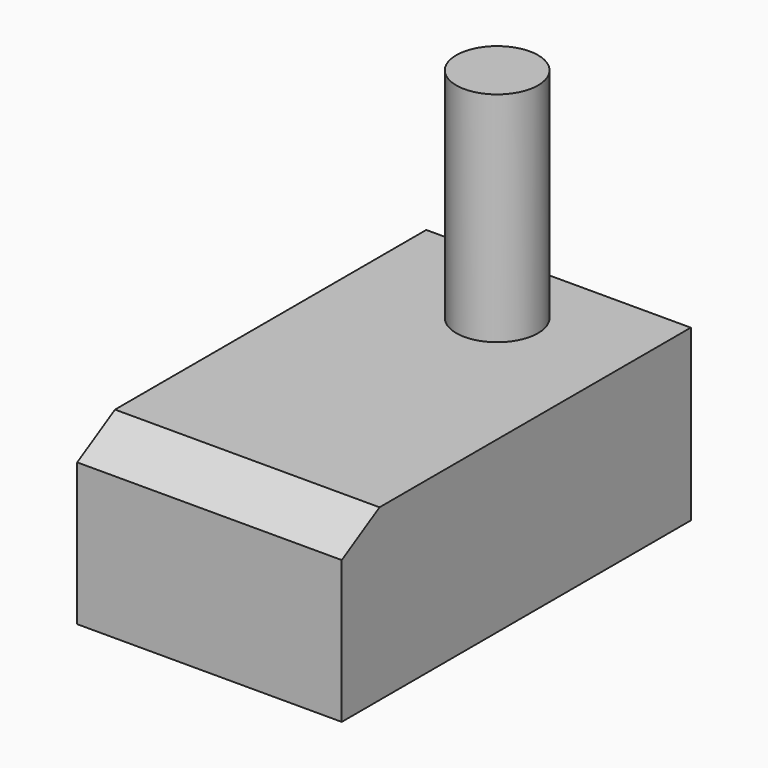
from build123d import *

# Parameters (mm, degrees)
F0_W     = 61.5972094238
F0_H     = 39.5282879472
F1_DEPTH = 101.6
F2_SIZE2 = 10.9985226281
F2_SIZE  = 6.35
F3_R     = 9.525
F4_DEPTH = 50.8


with BuildPart() as f1:
    # F0 (on Front) → F1 (new body)
    with BuildSketch(Plane.XZ):
        with Locations((30.7986047119, 19.7641439736)):
            Rectangle(F0_W, F0_H)
    extrude(amount=F1_DEPTH)

    # F2
    f2_edges = [f1.edges().sort_by_distance(p)[0] for p in [
        (30.798605, -101.6, 39.528288),
    ]]
    f2_side = f1.faces().sort_by_distance((30.798605, -101.6, 19.764144))[0]
    chamfer(f2_edges, length=F2_SIZE, length2=F2_SIZE2, reference=f2_side)


with BuildPart() as f4:
    # F3 (on face) → F4 (new body)
    with BuildSketch(Plane.XY.offset(39.5282879472)):
        with Locations((31.75, -19.05)):
            Circle(F3_R)
    extrude(amount=F4_DEPTH)


solid = Compound([f1.part, f4.part])
